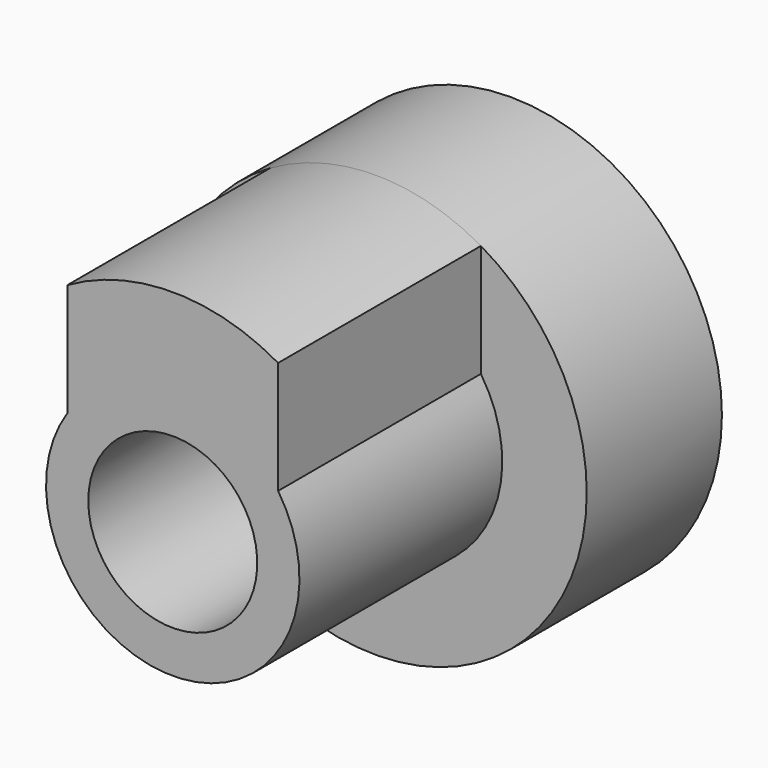
from build123d import *

# Parameters (mm, degrees)
F0_R     = 5
F1_DEPTH = 4
F2_R     = 3
F3_DEPTH = 6
F4_R     = 2
F5_DEPTH = 25
F4_R_2   = 3.5
F6_DEPTH = 2.5
F8_DEPTH = 7


with BuildPart() as f1:
    # F0 (on Front) → F1 (new body)
    with BuildSketch(Plane.XZ):
        Circle(F0_R)
    extrude(amount=F1_DEPTH)

    # F2 (on face) → F3 (join)
    with BuildSketch(Plane.XZ.offset(4)):
        Circle(F2_R)
    extrude(amount=F3_DEPTH)

    # F4 (on face) → F5 (cut)
    with BuildSketch(Plane(origin=(0, 0, 0), x_dir=(-1, 0, 0), z_dir=(0, 1, 0))):
        Circle(F4_R)
    extrude(amount=-F5_DEPTH, mode=Mode.SUBTRACT)

    # F4 (on face) → F6 (cut)
    with BuildSketch(Plane(origin=(0, 0, 0), x_dir=(-1, 0, 0), z_dir=(0, 1, 0))):
        Circle(F4_R_2)
        Circle(F4_R, mode=Mode.SUBTRACT)
    extrude(amount=-F6_DEPTH, mode=Mode.SUBTRACT)

    # F7 (on face) → F8 (join)
    with BuildSketch(Plane.XZ.offset(10)):
        with BuildLine():
            Line((2.49434, 1.666814), (2.49434, 4.33339))
            ThreePointArc((2.49434, 4.33339), (0, 5), (-2.49434, 4.33339))
            Line((-2.49434, 4.33339), (-2.49434, 1.666814))
            ThreePointArc((-2.49434, 1.666814), (0, 3), (2.49434, 1.666814))
        make_face()
    extrude(amount=-F8_DEPTH)


solid = f1.part
